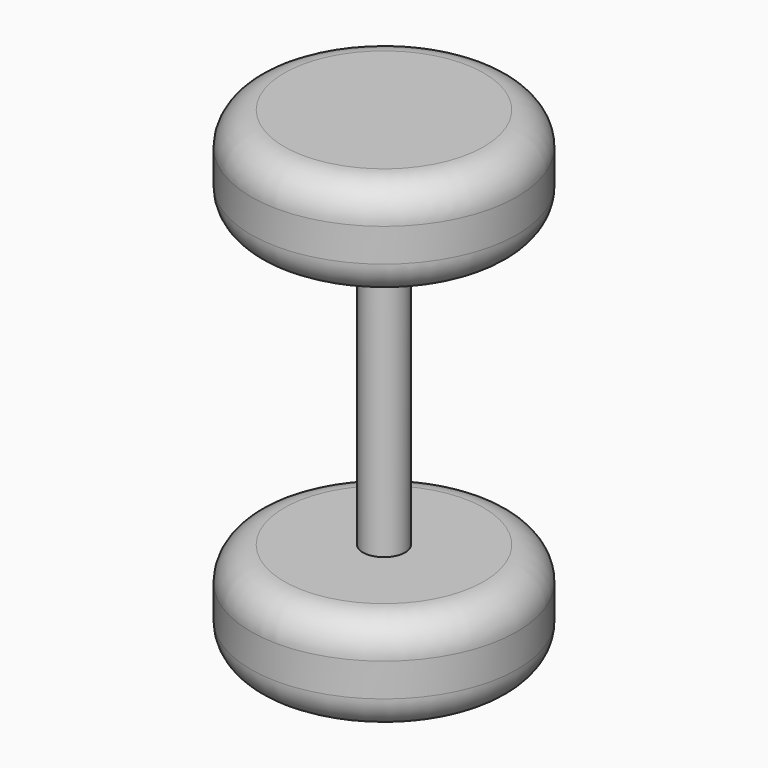
from build123d import *

# Parameters (mm, degrees)
F0_W = 3.2262087334
F0_H = 43.2004859692
F2_R = 5.08


with BuildPart() as f1:
    # F0 (on Front) → F1 (revolve)
    with BuildSketch(Plane.XZ):
        Polygon((0, -23.5666954911), (0, -38.8066954911), (20.32, -38.8066954911), (20.32, -23.5666954911), (3.2262087334, -23.5666954911), align=None)
        with Locations((1.6131043667, -1.9664525065)):
            Rectangle(F0_W, F0_H)
        Polygon((0, 34.8737904781), (0, 19.6337904781), (3.2262087334, 19.6337904781), (20.32, 19.6337904781), (20.32, 34.8737904781), align=None)
    revolve(axis=Axis((0, 0, -1.9664525065), (0, 0, 1)))

    # F2
    f2_edges = [f1.edges().sort_by_distance(p)[0] for p in [
        (-20.32, 0, 34.87379),
        (-20.32, 0, 19.63379),
        (-20.32, 0, -23.566695),
        (-20.32, 0, -38.806695),
    ]]
    fillet(f2_edges, radius=F2_R)


solid = f1.part
